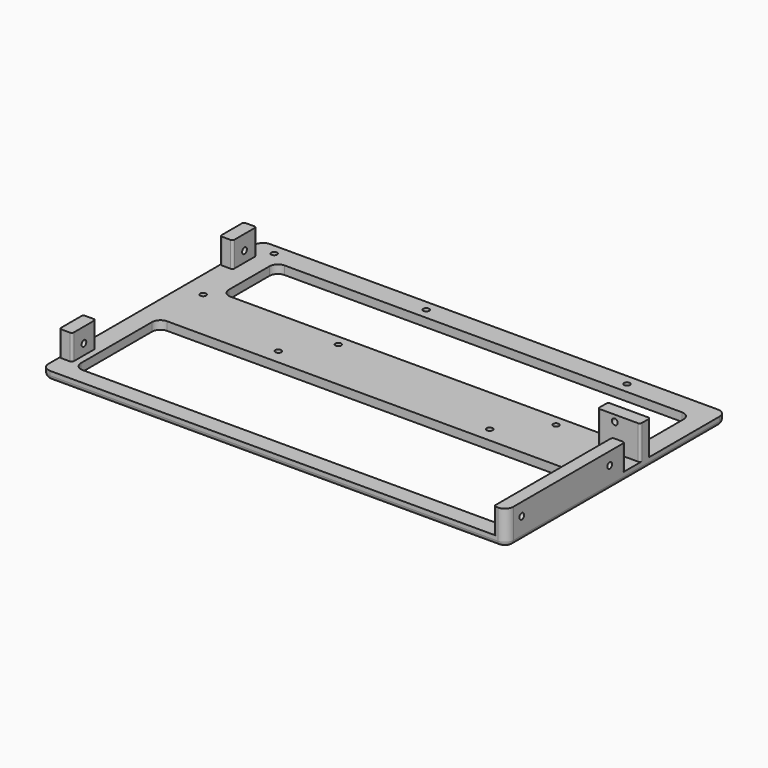
from build123d import *

# Parameters (mm, degrees)
SKETCH_R        = 1.375
PAD_DEPTH       = 4
PAD001_DEPTH    = 12
SKETCH002_R     = 1.4
POCKET_DEPTH    = 8
SKETCH003_R     = 1.4
POCKET001_DEPTH = 8
FILLET_R        = 2
SKETCH004_R     = 3
POCKET002_DEPTH = 1.5
SKETCH005_R     = 1.4
POCKET003_DEPTH = 5
PAD002_DEPTH    = 16
SKETCH007_R     = 1.4
POCKET004_DEPTH = 8


with BuildPart() as part:
    # Sketch → Pad (new body)
    with BuildSketch(Plane.XY):
        with BuildLine():
            Line((-106, 65), (106, 65))
            ThreePointArc((110, 61), (108.828427, 63.828427), (106, 65))
            Line((110, 61), (110, -61))
            ThreePointArc((106, -65), (108.828427, -63.828427), (110, -61))
            Line((106, -65), (-106, -65))
            ThreePointArc((-110, -61), (-108.828427, -63.828427), (-106, -65))
            Line((-110, -61), (-110, 61))
            ThreePointArc((-106, 65), (-108.828427, 63.828427), (-110, 61))
        make_face()
        with Locations((-100, 60)):
            Circle(SKETCH_R, mode=Mode.SUBTRACT)
        with Locations((-28, 60)):
            Circle(SKETCH_R, mode=Mode.SUBTRACT)
        with Locations((67, 60)):
            Circle(SKETCH_R, mode=Mode.SUBTRACT)
        with Locations((67, 18)):
            Circle(SKETCH_R, mode=Mode.SUBTRACT)
        with Locations((-36, 18)):
            Circle(SKETCH_R, mode=Mode.SUBTRACT)
        with Locations((-100, 18)):
            Circle(SKETCH_R, mode=Mode.SUBTRACT)
        with BuildLine():
            ThreePointArc((-97, -7), (-99.828427, -8.171573), (-101, -11))
            Line((-101, -53), (-101, -11))
            ThreePointArc((-101, -53), (-99.828427, -55.828427), (-97, -57))
            Line((97, -57), (-97, -57))
            ThreePointArc((97, -57), (99.828427, -55.828427), (101, -53))
            Line((101, -11), (101, -53))
            ThreePointArc((101, -11), (99.828427, -8.171573), (97, -7))
            Line((-97, -7), (97, -7))
        make_face(mode=Mode.SUBTRACT)
        with BuildLine():
            ThreePointArc((-91, 55), (-93.828427, 53.828427), (-95, 51))
            Line((-95, 27), (-95, 51))
            ThreePointArc((-95, 27), (-93.828427, 24.171573), (-91, 23))
            Line((97, 23), (-91, 23))
            ThreePointArc((97, 23), (99.828427, 24.171573), (101, 27))
            Line((101, 51), (101, 27))
            ThreePointArc((101, 51), (99.828427, 53.828427), (97, 55))
            Line((-91, 55), (97, 55))
        make_face(mode=Mode.SUBTRACT)
    extrude(amount=PAD_DEPTH)

    # Sketch001 (on Face32 of Pad) → Pad001 (join)
    with BuildSketch(Plane.XY.offset(4)):
        with BuildLine():
            ThreePointArc((-109, 54.5), (-109.707107, 54.207107), (-110, 53.5))
            Line((-110, 41.5), (-110, 53.5))
            ThreePointArc((-110, 41.5), (-109.707107, 40.792893), (-109, 40.5))
            Line((-105, 40.5), (-109, 40.5))
            ThreePointArc((-105, 40.5), (-104.292893, 40.792893), (-104, 41.5))
            Line((-104, 53.5), (-104, 41.5))
            ThreePointArc((-104, 53.5), (-104.292893, 54.207107), (-105, 54.5))
            Line((-109, 54.5), (-105, 54.5))
        make_face()
        with BuildLine():
            ThreePointArc((-109, -40.5), (-109.707107, -40.792893), (-110, -41.5))
            Line((-110, -53.5), (-110, -41.5))
            ThreePointArc((-110, -53.5), (-109.707107, -54.207107), (-109, -54.5))
            Line((-105, -54.5), (-109, -54.5))
            ThreePointArc((-105, -54.5), (-104.292893, -54.207107), (-104, -53.5))
            Line((-104, -41.5), (-104, -53.5))
            ThreePointArc((-104, -41.5), (-104.292893, -40.792893), (-105, -40.5))
            Line((-109, -40.5), (-105, -40.5))
        make_face()
        with BuildLine():
            ThreePointArc((105, 5), (104.292893, 4.707107), (104, 4))
            Line((104, -64), (104, 4))
            ThreePointArc((104, -64), (104.292893, -64.707107), (105, -65))
            Line((106, -65), (105, -65))
            ThreePointArc((106, -65), (108.828427, -63.828427), (110, -61))
            Line((110, 4), (110, -61))
            ThreePointArc((110, 4), (109.707107, 4.707107), (109, 5))
            Line((105, 5), (109, 5))
        make_face()
    extrude(amount=PAD001_DEPTH)

    # Sketch002 (on Face7 of Pad001) → Pocket (cut)
    with BuildSketch(Plane(origin=(-110, 0, 0), x_dir=(0, -1, 0), z_dir=(-1, 0, 0))):
        with Locations((-47.5, 9)):
            Circle(SKETCH002_R)
        with Locations((47.5, 9)):
            Circle(SKETCH002_R)
    extrude(amount=-POCKET_DEPTH, mode=Mode.SUBTRACT)

    # Sketch003 (on Face59 of Pocket) → Pocket001 (cut)
    with BuildSketch(Plane.YZ.offset(110)):
        with Locations((-56, 10)):
            Circle(SKETCH003_R)
        with Locations((-4, 10)):
            Circle(SKETCH003_R)
    extrude(amount=-POCKET001_DEPTH, mode=Mode.SUBTRACT)

    # Fillet
    fillet_edges = [part.edges().sort_by_distance(p)[0] for p in [
        (110, 0, 0),
    ]]
    fillet(fillet_edges, radius=FILLET_R)

    # Sketch004 (on Face10 of Fillet) → Pocket002 (cut)
    with BuildSketch(Plane(origin=(0, 0, 0), x_dir=(1, 0, 0), z_dir=(0, 0, -1))):
        with Locations((-50, 0)):
            Circle(SKETCH004_R)
        with Locations((50, 0)):
            Circle(SKETCH004_R)
    extrude(amount=-POCKET002_DEPTH, mode=Mode.SUBTRACT)

    # Sketch005 (on Face10 of Pocket002) → Pocket003 (cut)
    with BuildSketch(Plane(origin=(0, 0, 0), x_dir=(1, 0, 0), z_dir=(0, 0, -1))):
        with Locations((-50, 0)):
            Circle(SKETCH005_R)
        with Locations((50, 0)):
            Circle(SKETCH005_R)
    extrude(amount=-POCKET003_DEPTH, mode=Mode.SUBTRACT)

    # Sketch006 (on Face4 of Pocket003) → Pad002 (join)
    with BuildSketch(Plane.XY.offset(4)):
        with BuildLine():
            ThreePointArc((109, 14), (109.707107, 14.292893), (110, 15))
            Line((110, 19), (110, 15))
            ThreePointArc((110, 19), (109.707107, 19.707107), (109, 20))
            Line((91, 20), (109, 20))
            ThreePointArc((91, 20), (90.292893, 19.707107), (90, 19))
            Line((90, 15), (90, 19))
            ThreePointArc((90, 15), (90.292893, 14.292893), (91, 14))
            Line((109, 14), (91, 14))
        make_face()
    extrude(amount=PAD002_DEPTH)

    # Sketch007 (on Face30 of Pad002) → Pocket004 (cut)
    with BuildSketch(Plane(origin=(0, 20, 0), x_dir=(-1, 0, 0), z_dir=(0, 1, 0))):
        with Locations((-98, 17)):
            Circle(SKETCH007_R)
    extrude(amount=-POCKET004_DEPTH, mode=Mode.SUBTRACT)


solid = part.part
